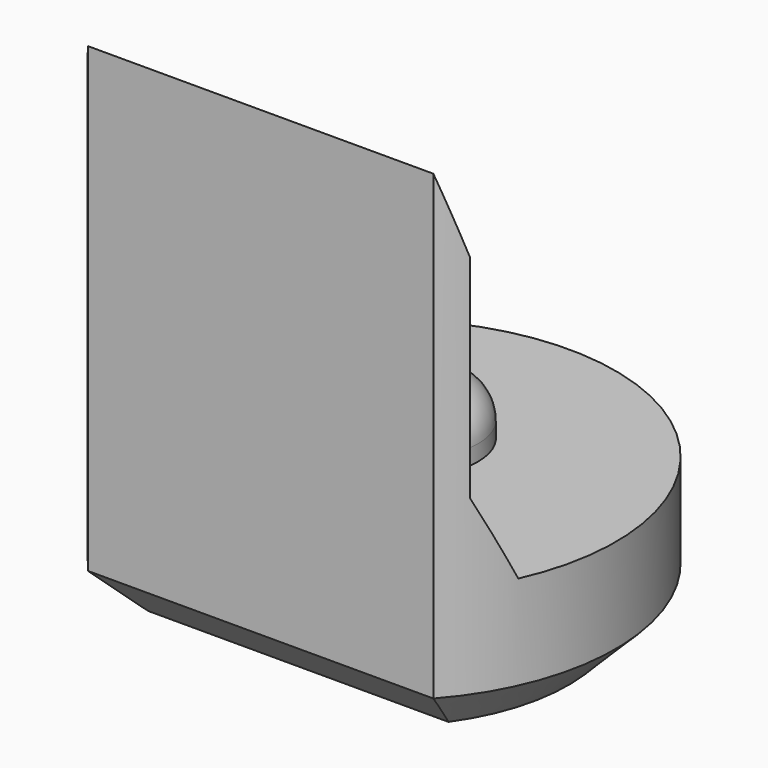
from build123d import *

# Parameters (mm, degrees)
PAD003_DEPTH         = 6.5
POCKET004_DEPTH      = 2.951
POCKET004_DEPTH_BACK = 2.951
SKETCH013_R          = 0.8
PAD006_DEPTH         = 0.7
FILLET_R             = 0.5
CHAMFER004_SIZE      = 0.6


with BuildPart() as part:
    # Sketch004 → Pad003 (new body)
    with BuildSketch(Plane.XY):
        with BuildLine():
            ThreePointArc((2.2, -1.9653244007), (0, 2.95), (-2.2, -1.9653244007))
            Line((-2.2, -1.9653244007), (2.2, -1.9653244007))
        make_face()
    extrude(amount=PAD003_DEPTH)

    # Sketch014 → Pocket004 (cut, two sides)
    with BuildSketch(Plane.YZ) as pocket004_sk:
        Polygon((-1.97, 6.5), (-1.67, 5.5), (-1.67, 2.8), (-1.22, 1.8), (4, 1.8), (4, 6.5), align=None)
    extrude(amount=-POCKET004_DEPTH, mode=Mode.SUBTRACT)
    extrude(pocket004_sk.sketch, amount=POCKET004_DEPTH_BACK, mode=Mode.SUBTRACT)

    # Sketch013 (on Face7 of Pocket004) → Pad006 (join)
    with BuildSketch(Plane.XY.offset(1.8)):
        with Locations((0, 0.5)):
            Circle(SKETCH013_R)
    extrude(amount=PAD006_DEPTH)

    # Fillet
    fillet_edges = [part.edges().sort_by_distance(p)[0] for p in [
        (-0.8, 0.5, 2.5),
    ]]
    fillet(fillet_edges, radius=FILLET_R)

    # Chamfer004
    chamfer004_edges = [part.edges().sort_by_distance(p)[0] for p in [
        (0, 2.95, 0),
        (0, -1.965324, 0),
    ]]
    chamfer(chamfer004_edges, length=CHAMFER004_SIZE)


with BuildPart() as part_1:
    # Body022 placement: moved
    add(part.part.moved(Location((0, 18, 0))))


solid = part_1.part
